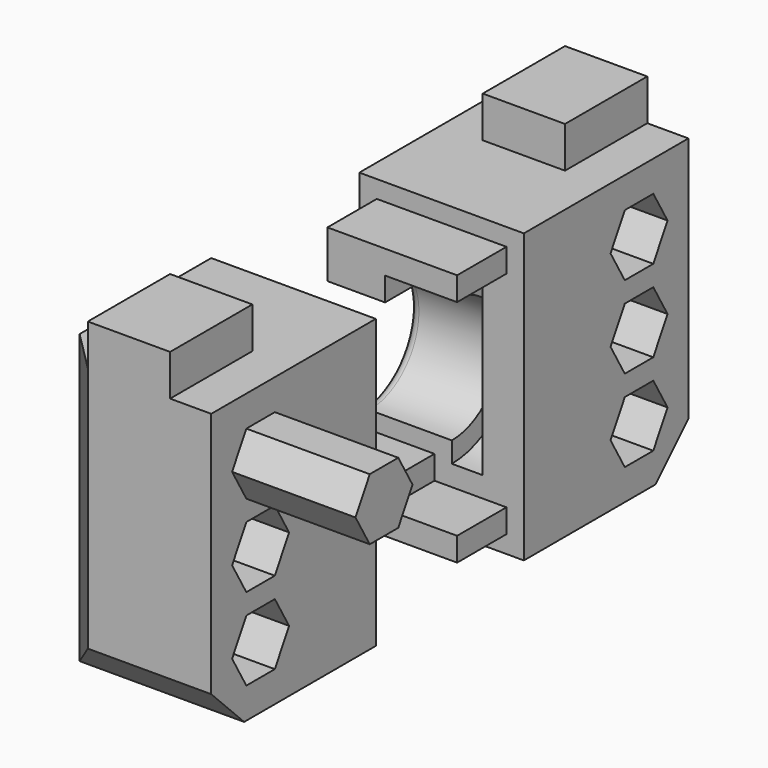
from build123d import *

# Parameters (mm, degrees)
F0_W       = 10
F0_H       = 14
F1_DEPTH   = 8
F3_DEPTH   = 6
F4_DEPTH   = 4.5
F6_DEPTH   = 3
F7_R       = 0.5
F9_DEPTH   = 3
F10_DEPTH  = 6
F13_DEPTH  = 6
F14_W      = 4
F14_H      = 5
F15_DEPTH  = 2
F16_W      = 4
F16_H      = 5
F17_DEPTH  = 2
F18_SIZE   = 2
F18_2_SIZE = 2


with BuildPart() as f1:
    # F0 (on Right) → F1 (new body)
    with BuildSketch(Plane.YZ):
        with Locations((5, 7)):
            Rectangle(F0_W, F0_H)
    extrude(amount=F1_DEPTH)

    # F2 (on face) → F3 (cut)
    with BuildSketch(Plane(origin=(0, 0, 0), x_dir=(0, -1, 0), z_dir=(-1, 0, 0))):
        with BuildLine():
            Line((-10, 4), (-10, 3))
            ThreePointArc((-10, 3), (-6, 7), (-10, 11))
            Line((-10, 11), (-10, 10))
            ThreePointArc((-10, 10), (-7, 7), (-10, 4))
        make_face()
        with BuildLine():
            Line((-10, 10), (-10, 4))
            ThreePointArc((-10, 4), (-7, 7), (-10, 10))
        make_face()
    extrude(amount=-F3_DEPTH, mode=Mode.SUBTRACT)

    # F2 (on face) → F4 (join)
    with BuildSketch(Plane(origin=(0, 0, 0), x_dir=(0, -1, 0), z_dir=(-1, 0, 0))):
        with BuildLine():
            Line((-10, 4), (-10, 3))
            ThreePointArc((-10, 3), (-6, 7), (-10, 11))
            Line((-10, 11), (-10, 10))
            ThreePointArc((-10, 10), (-7, 7), (-10, 4))
        make_face()
    extrude(amount=-F4_DEPTH)

    # F5 (on face) → F6 (cut)
    with BuildSketch(Plane(origin=(0, 10, 0), x_dir=(-1, 0, 0), z_dir=(0, 1, 0))):
        Polygon((-0.8500000113, 10.8500000113), (-0.8500000113, 13.1499999887), (-3.6539883502, 13.1499999887), (-7.1539883502, 13.1499999887), (-7.1539883502, 12), (-3.6539883502, 12), (-3.6539883502, 10.8500000113), align=None)
        Polygon((-3.6539883502, 0.8500000113), (-0.8500000113, 0.8500000113), (-0.8500000113, 3.1499999887), (-3.6539883502, 3.1499999887), (-3.6539883502, 2), (-7.1539883502, 2), (-7.1539883502, 0.8500000113), align=None)
    extrude(amount=-F6_DEPTH, mode=Mode.SUBTRACT)

    # F7
    f7_edges = [f1.edges().sort_by_distance(p)[0] for p in [
        (0, 7, 7),
    ]]
    fillet(f7_edges, radius=F7_R)

    # F8 (on face) → F9 (cut)
    with BuildSketch(Plane.YZ.offset(8)):
        Polygon((2.1339745962, 9.5), (3.8660254038, 9.5), (4.7320508076, 11), (3.8660254038, 12.5), (2.1339745962, 12.5), (1.2679491924, 11), align=None)
        Polygon((4.7320508076, 3), (3.8660254038, 4.5), (2.1339745962, 4.5), (1.2679491924, 3), (2.1339745962, 1.5), (3.8660254038, 1.5), align=None)
        Polygon((2.1339745962, 5.5), (3.8660254038, 5.5), (4.7320508076, 7), (3.8660254038, 8.5), (2.1339745962, 8.5), (1.2679491924, 7), align=None)
    extrude(amount=-F9_DEPTH, mode=Mode.SUBTRACT)


with BuildPart() as f10:
    # F8 (on face) → F10 (new body)
    with BuildSketch(Plane.YZ.offset(8)):
        Polygon((2.1339745962, 9.5), (3.8660254038, 9.5), (4.7320508076, 11), (3.8660254038, 12.5), (2.1339745962, 12.5), (1.2679491924, 11), align=None)
    extrude(amount=F10_DEPTH)


with BuildPart() as f12_1:
    # F12: instance of F1
    add(f1.part.mirror(Plane.XZ.offset(-14.5)))

    # F13 (add): faces of the model
    f13_faces = [f12_1.faces().sort_by_distance(p)[0] for p in [
        (3.4632379051, 22, 12.2209601596),
        (3.4632379051, 22, 1.7790398404),
    ]]
    extrude(f13_faces, amount=F13_DEPTH)

    # F16 (on face) → F17 (join)
    with BuildSketch(Plane.XY.offset(14)):
        with Locations((4, 26.5)):
            Rectangle(F16_W, F16_H)
    extrude(amount=F17_DEPTH)

    # F18#2
    f18_2_edges = [f12_1.edges().sort_by_distance(p)[0] for p in [
        (4, 29, 0),
        (0, 29, 7),
    ]]
    chamfer(f18_2_edges, length=F18_2_SIZE)


with BuildPart() as f1_1:
    add(f1.part)

    # F14 (on face) → F15 (join)
    with BuildSketch(Plane.XY.offset(14)):
        with Locations((4, 2.5)):
            Rectangle(F14_W, F14_H)
    extrude(amount=F15_DEPTH)

    # F18
    f18_edges = [f1_1.edges().sort_by_distance(p)[0] for p in [
        (4, 0, 0),
        (0, 0, 7),
    ]]
    chamfer(f18_edges, length=F18_SIZE)


solid = Compound([f10.part, f12_1.part, f1_1.part])
